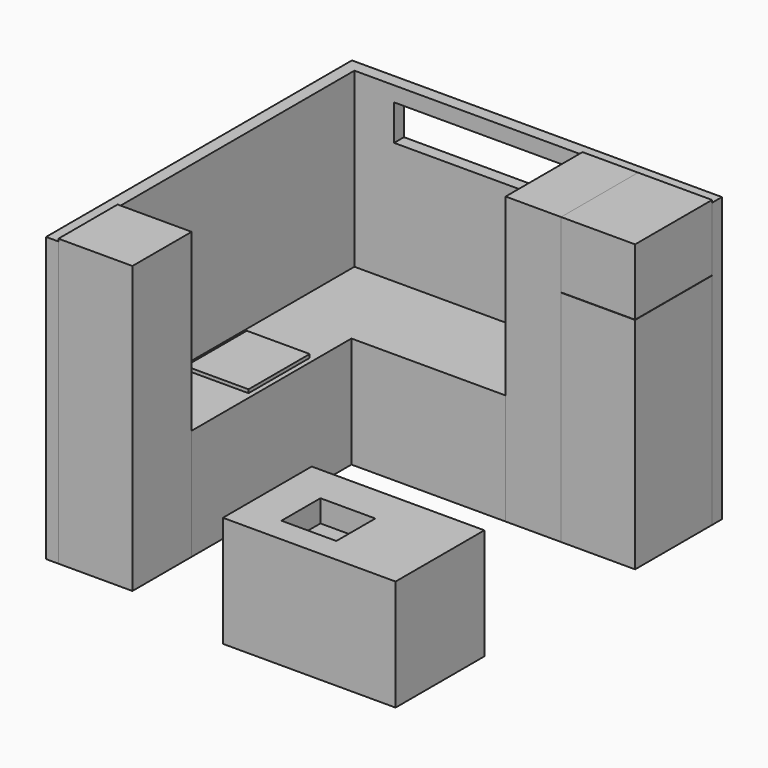
from build123d import *

# Parameters (mm, degrees)
F0_W      = 600
F0_H      = 779.999971
F1_DEPTH  = 1780
F0_W_2    = 450
F2_DEPTH  = 2320
F0_H_2    = 600
F3_DEPTH  = 2320
F4_DEPTH  = 900
F0_W_3    = 1400
F0_H_3    = 900
F5_DEPTH  = 900
F6_W      = 779.999971
F6_H      = 537.720032
F7_DEPTH  = 600
F8_DEPTH  = 2300
F9_W      = 510
F9_H      = 620
F10_DEPTH = 28
F11_W     = 1375.687555
F11_H     = 289.229512
F12_DEPTH = 100.001
F13_W     = 445
F13_H     = 395
F14_DEPTH = 180


with BuildPart() as f1:
    # F0 (on Top) → F1 (new body)
    with BuildSketch(Plane.XY):
        with Locations((785.321288, 1248.260403)):
            Rectangle(F0_W, F0_H)
    extrude(amount=F1_DEPTH)


with BuildPart() as f2:
    # F0 (on Top) → F2 (new body)
    with BuildSketch(Plane.XY):
        with Locations((260.321288, 1248.260403)):
            Rectangle(F0_W_2, F0_H)
    extrude(amount=F2_DEPTH)


with BuildPart() as f3:
    # F0 (on Top) → F3 (new body)
    with BuildSketch(Plane.XY):
        with Locations((-1514.678712, -1061.739612)):
            Rectangle(F0_W, F0_H_2)
    extrude(amount=F3_DEPTH)


with BuildPart() as f4:
    # F0 (on Top) → F4 (new body)
    with BuildSketch(Plane.XY):
        Polygon((35.321288, 1638.260388), (-1814.678712, 1638.260388), (-1814.678712, 1038.260388), (-1814.678712, -761.739612), (-1214.678712, -761.739612), (-1214.678712, 858.260417), (35.321288, 858.260417), align=None)
    extrude(amount=F4_DEPTH)


with BuildPart() as f5:
    # F0 (on Top) → F5 (new body)
    with BuildSketch(Plane.XY):
        with Locations((385.321288, -1119.514632)):
            Rectangle(F0_W_3, F0_H_3)
    extrude(amount=F5_DEPTH)

    # F13 (on face) → F14 (cut)
    with BuildSketch(Plane.XY.offset(900)):
        with Locations((222.5, -1172.014632)):
            Rectangle(F13_W, F13_H)
    extrude(amount=-F14_DEPTH, mode=Mode.SUBTRACT)


with BuildPart() as f7:
    # F6 (on face) → F7 (new body)
    with BuildSketch(Plane.YZ.offset(485.321288)):
        with Locations((1248.260403, 2051.139984)):
            Rectangle(F6_W, F6_H)
    extrude(amount=F7_DEPTH)


with BuildPart() as f8:
    # F0 (on Top) → F8 (new body)
    with BuildSketch(Plane.XY):
        Polygon((-1814.678712, 1038.260388), (-1814.678712, 1638.260388), (35.321288, 1638.260388), (485.321288, 1638.260388), (1085.321288, 1638.260388), (1085.321288, 1738.260388), (-1914.678712, 1738.260388), (-1914.678712, 858.260417), (-1914.678712, -1361.739612), (-1814.678712, -1361.739612), (-1814.678712, -761.739612), align=None)
    extrude(amount=F8_DEPTH)

    # F11 (on face) → F12 (cut, through all)
    with BuildSketch(Plane.XZ.offset(-1638.260388)):
        with Locations((-804.886483, 2033.638418)):
            Rectangle(F11_W, F11_H)
        with Locations((-804.886483, 2033.638418)):
            Rectangle(F11_W, F11_H)
    extrude(amount=-F12_DEPTH, mode=Mode.SUBTRACT)


with BuildPart() as f10:
    # F9 (on face) → F10 (new body)
    with BuildSketch(Plane.XY.offset(900)):
        with Locations((-1509.678712, 175.397433)):
            Rectangle(F9_W, F9_H)
    extrude(amount=F10_DEPTH)


solid = Compound([f1.part, f2.part, f3.part, f4.part, f5.part, f7.part, f8.part, f10.part])
